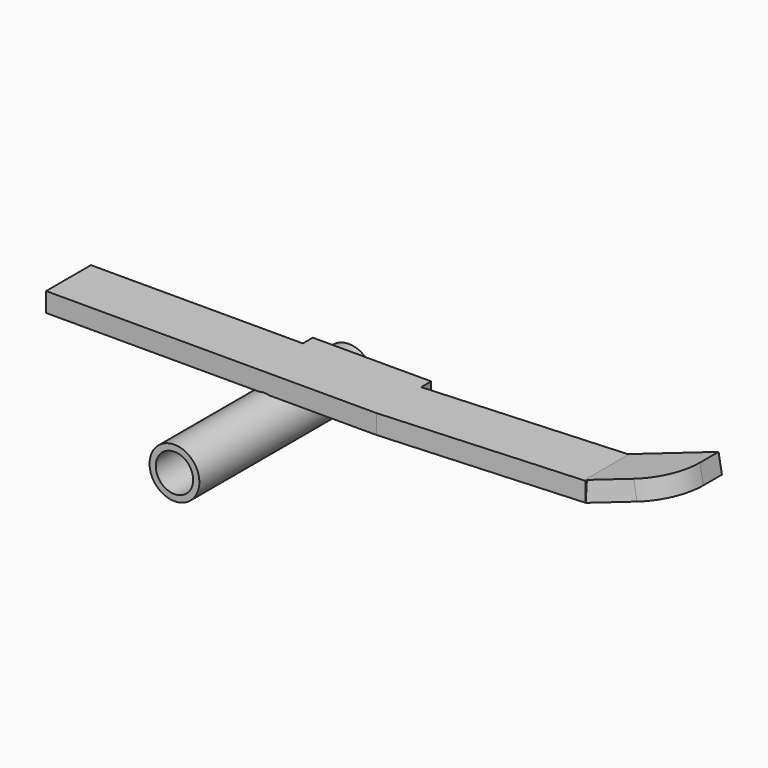
from build123d import *

# Parameters (mm, degrees)
F0_R     = 4
F0_R_2   = 3
F1_DEPTH = 35
F3_W     = 85
F3_H     = 3.1
F4_DEPTH = 11
F5_W     = 34
F5_H     = 2
F6_DEPTH = 3.1
F9_DEPTH = 3.1
F10_R    = 8


with BuildPart() as f1:
    # F0 (on Front) → F1 (new body)
    with BuildSketch(Plane.XZ):
        Circle(F0_R)
        Circle(F0_R_2, mode=Mode.SUBTRACT)
    extrude(amount=F1_DEPTH)

    # F3 (on offset) → F4 (join)
    with BuildSketch(Plane.XZ.offset(17)):
        with Locations((7.5, 5.45)):
            Rectangle(F3_W, F3_H)
    extrude(amount=-F4_DEPTH)

    # F5 (on face) → F6 (cut)
    with BuildSketch(Plane.XY.offset(7)):
        with Locations((-18, -7)):
            Rectangle(F5_W, F5_H)
        Polygon((50, -6), (18, -6), (18, -8), align=None)
        Polygon((50, -15), (18, -17), (50, -17), align=None)
    extrude(amount=-F6_DEPTH, mode=Mode.SUBTRACT)

    # F8 (on face) → F9 (join)
    with BuildSketch(Plane(origin=(0.840745, 0, -4.768103), x_dir=(0.984808, 0, 0.173648), z_dir=(0.173648, 0, -0.984808))):
        Polygon((60.9319, 10.237065), (49.917616, 15), (49.917616, 6), (60.9319, 1.237065), align=None)
    extrude(amount=-F9_DEPTH)

    # F10
    f10_edges = [f1.edges().sort_by_distance(p)[0] for p in [
        (60.577798, -10.237065, 7.339062),
    ]]
    fillet(f10_edges, radius=F10_R)


solid = f1.part
